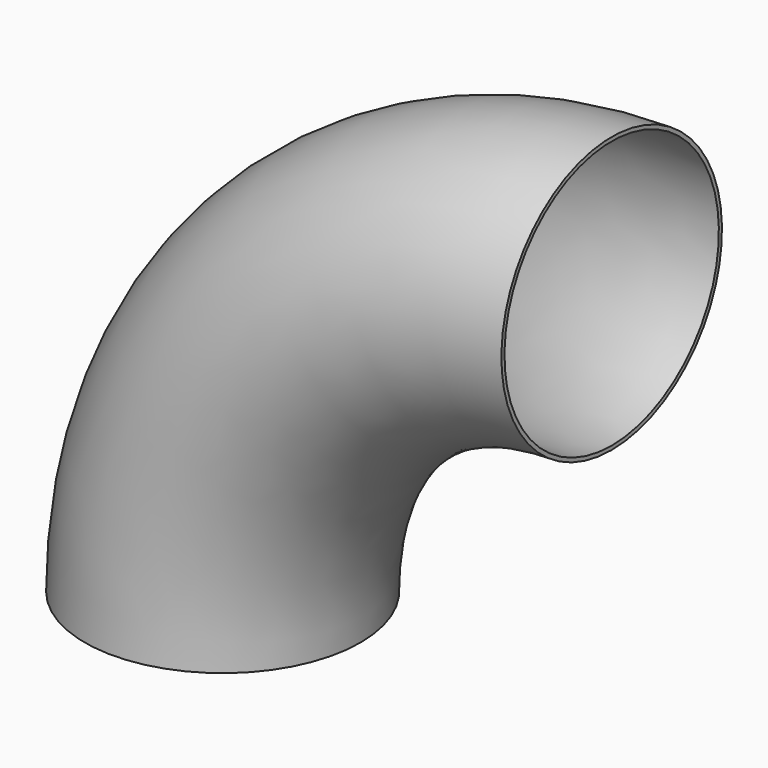
from build123d import *

# Parameters (mm, degrees)
F1_R   = 161.95
F1_R_2 = 157.4


with BuildPart() as f2:
    # F2: sweep along a path in F0
    with BuildLine(Plane.XZ) as f2_path:
        ThreePointArc((0, 457), (-323.147799, 323.147799), (-457, 0))
    # F1 (on Top) → F2 (sweep)
    with BuildSketch(Plane.XY):
        with Locations((-457, 0)):
            Circle(F1_R)
        with Locations((-457, 0)):
            Circle(F1_R_2, mode=Mode.SUBTRACT)
    sweep(path=f2_path.line)


solid = f2.part
